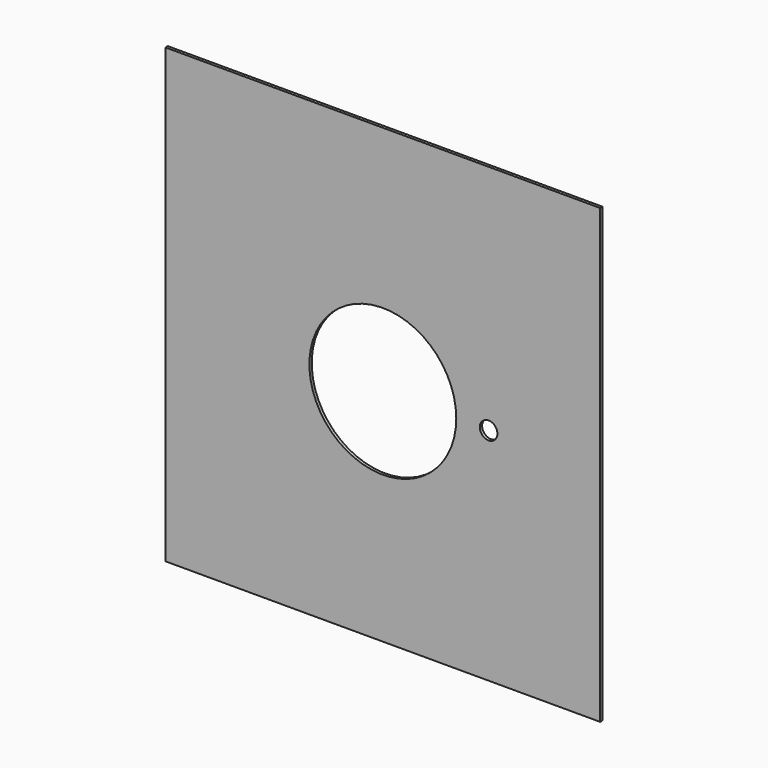
from build123d import *

# Parameters (mm, degrees)
F0_W     = 296
F0_H     = 308
F0_R     = 50
F1_DEPTH = 2
F2_D     = 12


with BuildPart() as f1:
    # F0 (on Front) → F1 (new body)
    with BuildSketch(Plane.XZ):
        with Locations((-2, -1)):
            Rectangle(F0_W, F0_H)
        with Locations((-2, -5)):
            Circle(F0_R, mode=Mode.SUBTRACT)
    extrude(amount=F1_DEPTH)

    # F2 (through all)
    with Locations(Plane(origin=(0, 0, 0), x_dir=(1, 0, 0), z_dir=(0, 1, 0))):
        with Locations((70, 5)):
            Hole(F2_D / 2)


solid = f1.part
